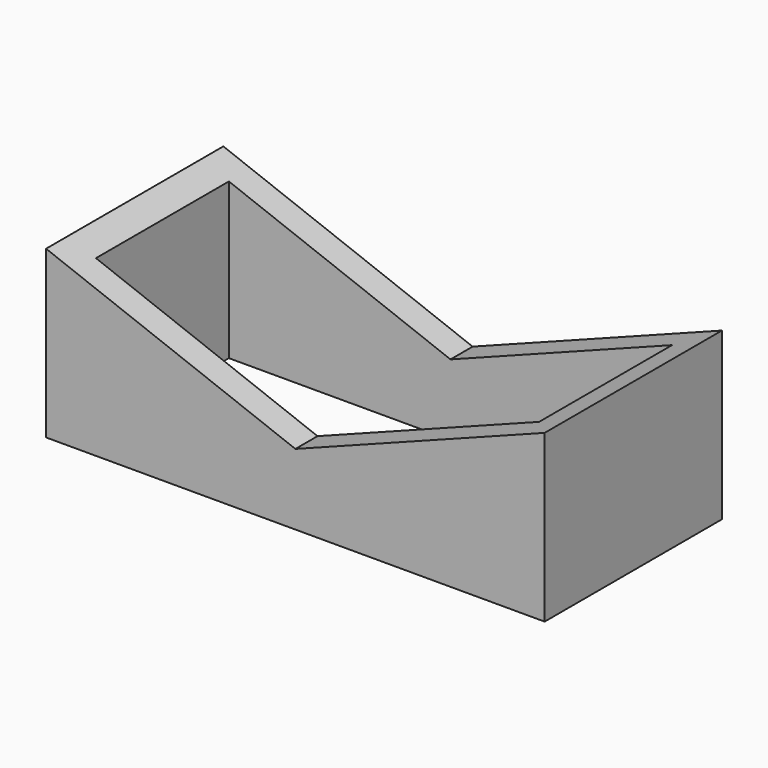
from build123d import *

# Parameters (mm, degrees)
F1_DEPTH      = 10
F1_DEPTH_BACK = 10
F2_T          = -2.5


with BuildPart() as f1:
    # F0 (on Front) → F1 (new body, two sides)
    with BuildSketch(Plane.XZ) as f1_sk:
        Polygon((-22.5, 15), (-22.5, 0), (22.5, 0), (22.5, 15), (0, 6.405836), align=None)
    extrude(amount=F1_DEPTH)
    extrude(f1_sk.sketch, amount=-F1_DEPTH_BACK)

    # F2
    f2_openings = [f1.faces().sort_by_distance(p)[0] for p in [
        (0, 0, 0),
        (-11.25, 0, 10.702918),
        (11.25, 0, 10.702918),
    ]]
    offset(amount=F2_T, openings=f2_openings)


solid = f1.part
